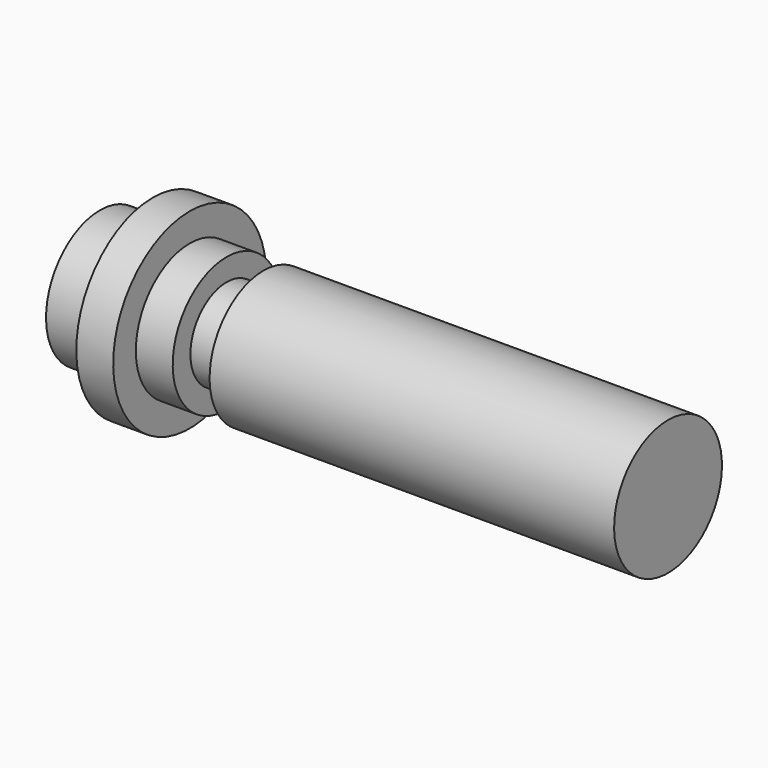
from build123d import *

# Parameters (mm, degrees)
F0_W = 10
F0_H = 7.666664


with BuildPart() as f1:
    # F0 (on Front) → F1 (revolve)
    with BuildSketch(Plane.XZ):
        Polygon((-65.778037, 23.810651), (-80.111359, 23.810651), (-80.111359, 5.543303), (73.888568, 5.543303), (73.888568, 23.810651), (-35.778037, 23.810651), (-35.778037, 17.810654), (-45.778037, 17.810654), (-45.778037, 23.810651), (-55.778037, 23.810651), align=None)
        with Locations((-60.778037, 27.643983)):
            Rectangle(F0_W, F0_H)
    revolve(axis=Axis((15.516561, 0, 5.543303), (1, 0, 0)))


solid = f1.part
